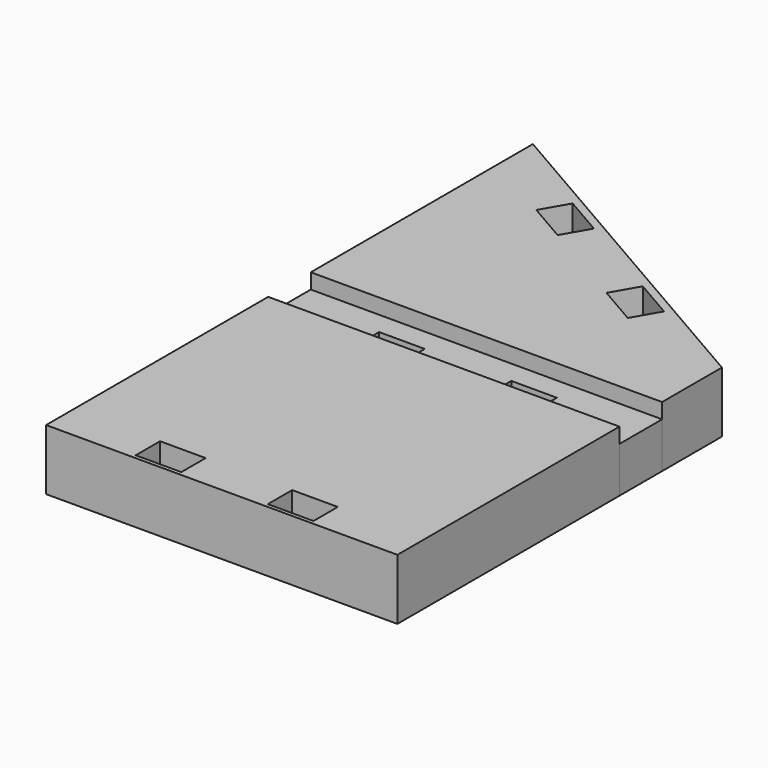
from build123d import *

# Parameters (mm, degrees)
F0_W     = 7.62
F0_H     = 5.08
F1_DEPTH = 10.16
F2_DEPTH = 7.62


with BuildPart() as f1:
    # F0 (on Top) → F1 (new body)
    with BuildSketch(Plane.XY):
        Polygon((35.535632, -55.732704), (-23.123154, -21.866039), (-23.123154, -68.221039), (35.535632, -68.221039), align=None)
        Polygon((-11.14219, -36.1156), (-8.60219, -31.716191), (-2.003076, -35.526191), (-4.543076, -39.9256), align=None, mode=Mode.SUBTRACT)
        Polygon((17.212002, -52.4859), (10.612888, -48.6759), (13.152888, -44.276491), (19.752002, -48.086491), align=None, mode=Mode.SUBTRACT)
        Polygon((-8.670554, -77.111039), (-23.123154, -77.111039), (-23.123154, -123.466039), (8.804092, -123.466039), (25.314092, -123.466039), (35.535632, -123.466039), (35.535632, -77.111039), (21.022046, -77.111039), (13.402046, -77.111039), (-1.050554, -77.111039), align=None)
        with Locations((-4.860554, -120.291039)):
            Rectangle(F0_W, F0_H, mode=Mode.SUBTRACT)
        with Locations((17.212046, -120.304264)):
            Rectangle(F0_W, F0_H, mode=Mode.SUBTRACT)
    extrude(amount=F1_DEPTH)


with BuildPart() as f2:
    # F0 (on Top) → F2 (new body)
    with BuildSketch(Plane.XY):
        Polygon((35.535632, -68.221039), (-23.123154, -68.221039), (-23.123154, -77.111039), (-8.670554, -77.111039), (-8.670554, -72.031039), (-1.050554, -72.031039), (-1.050554, -77.111039), (13.402046, -77.111039), (13.402046, -72.031039), (21.022046, -72.031039), (21.022046, -77.111039), (35.535632, -77.111039), align=None)
    extrude(amount=F2_DEPTH)


solid = Compound([f1.part, f2.part])
